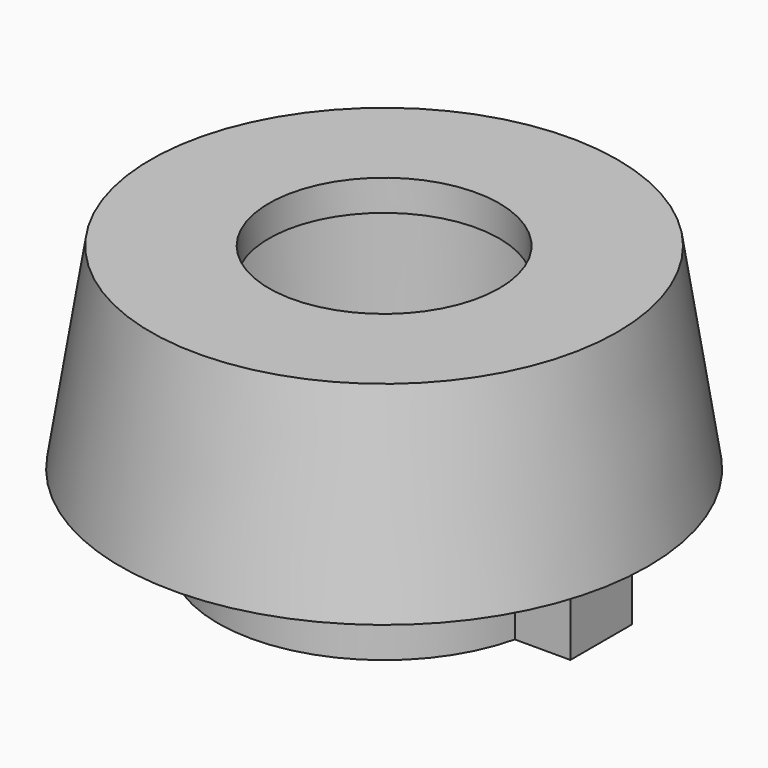
from build123d import *

# Parameters (mm, degrees)
F2_R      = 17.075
F0_R      = 15.1
F5_R      = 10.75
F5_R_2    = 10
F6_DEPTH  = 18
F7_DEPTH  = 18
F8_R      = 10
F8_R_2    = 7.45
F9_DEPTH  = 2
F11_DEPTH = 3.8


with BuildPart() as f3:
    # F2 (on offset) → F3 section 0
    with BuildSketch(Plane.XY.offset(-12.7)):
        Circle(F2_R)
    # F0 (on Top) → F3 section 1
    with BuildSketch(Plane.XY):
        Circle(F0_R)
    loft()

    # F5 (on offset) → F6 (join)
    with BuildSketch(Plane.XY.offset(-18)):
        Circle(F5_R)
        Circle(F5_R_2, mode=Mode.SUBTRACT)
    extrude(amount=F6_DEPTH)

    # F7 (cut): a face of the model
    f7_faces = [f3.faces().sort_by_distance(p)[0] for p in [
        (0, 0, -12.7),
    ]]
    extrude(f7_faces, amount=-F7_DEPTH, mode=Mode.SUBTRACT)

    # F8 (on Top) → F9 (join)
    with BuildSketch(Plane.XY):
        Circle(F8_R)
        Circle(F8_R_2, mode=Mode.SUBTRACT)
    extrude(amount=-F9_DEPTH)

    # F10 (on face) → F11 (join)
    with BuildSketch(Plane(origin=(0, 0, -18), x_dir=(1, 0, 0), z_dir=(0, 0, -1))):
        with BuildLine():
            Line((-14.05, 2.5), (-14.05, 0))
            Line((-14.05, 0), (-14.05, -2.5))
            Line((-14.05, -2.5), (-10.4552618332, -2.5))
            ThreePointArc((-10.4552618332, -2.5), (-10.75, 0), (-10.4552618332, 2.5))
            Line((-10.4552618332, 2.5), (-14.05, 2.5))
        make_face()
        with BuildLine():
            Line((14.05, 2.5), (10.4552618332, 2.5))
            ThreePointArc((10.4552618332, 2.5), (10.6760611816, 1.2586570807), (10.75, 0))
            ThreePointArc((10.75, 0), (10.6760611816, -1.2586570807), (10.4552618332, -2.5))
            Line((10.4552618332, -2.5), (14.05, -2.5))
            Line((14.05, -2.5), (14.05, 0))
            Line((14.05, 0), (14.05, 2.5))
        make_face()
    extrude(amount=-F11_DEPTH)


solid = f3.part
